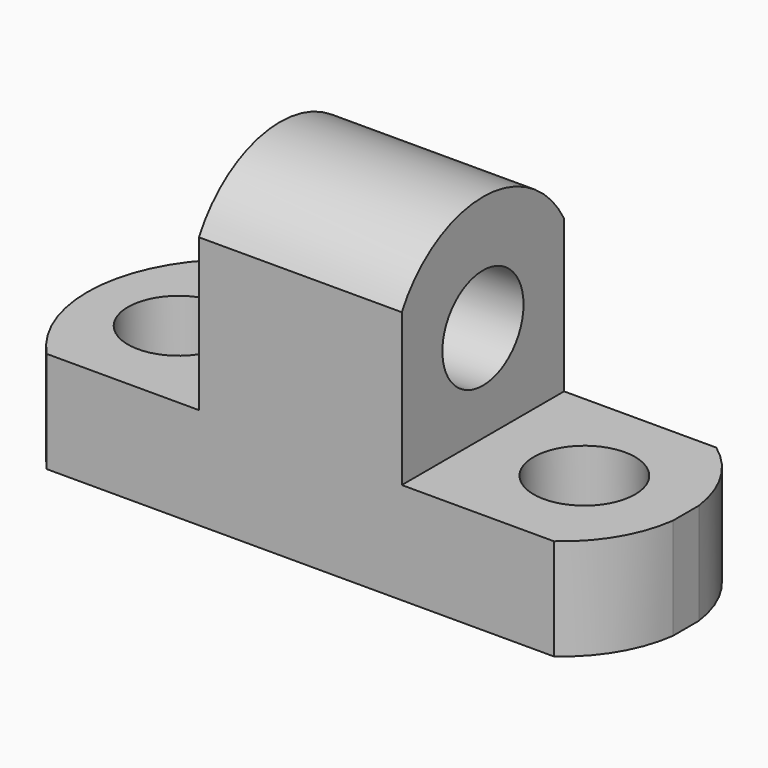
from build123d import *

# Parameters (mm, degrees)
F1_DEPTH = 25.4
F2_R     = 6.35
F3_DEPTH = 12.701
F4_R     = 6.35
F5_DEPTH = 50.801
F7_DEPTH = 12.701
F9_DEPTH = 12.701


with BuildPart() as f1:
    # F0 (on Front) → F1 (new body)
    with BuildSketch(Plane.XZ):
        Polygon((-20.6712735461, 12.7), (-46.0712735461, 12.7), (-46.0712735461, 0), (30.1287264539, 0), (30.1287264539, 12.7), (4.7287264539, 12.7), (4.7287264539, 44.45), (-20.6712735461, 44.45), align=None)
    extrude(amount=F1_DEPTH)

    # F2 (on face) → F3 (cut, through all)
    with BuildSketch(Plane.XY.offset(12.7)):
        with Locations((17.4287264539, -12.7)):
            Circle(F2_R)
        with Locations((-33.3712735461, -12.7)):
            Circle(F2_R)
    extrude(amount=-F3_DEPTH, mode=Mode.SUBTRACT)

    # F4 (on face) → F5 (cut, through all)
    with BuildSketch(Plane.YZ.offset(4.7287264539)):
        with Locations((-12.7, 24.8512161426)):
            Circle(F4_R)
        with BuildLine():
            ThreePointArc((-25.4, 31.75), (-12.7, 39.3040089077), (0, 31.75))
            Line((0, 31.75), (0, 44.45))
            Line((0, 44.45), (-25.4, 44.45))
            Line((-25.4, 44.45), (-25.4, 31.75))
        make_face()
    extrude(amount=-F5_DEPTH, mode=Mode.SUBTRACT)

    # F6 (on face) → F7 (cut, through all)
    with BuildSketch(Plane.XY.offset(12.7)):
        with BuildLine():
            ThreePointArc((-39.7212735461, -25.4), (-44.8051245149, -12.7), (-39.7212735461, 0))
            Line((-39.7212735461, 0), (-46.0712735461, 0))
            Line((-46.0712735461, 0), (-46.0712735461, -25.4))
            Line((-46.0712735461, -25.4), (-39.7212735461, -25.4))
        make_face()
    extrude(amount=-F7_DEPTH, mode=Mode.SUBTRACT)

    # F8 (on face) → F9 (cut, through all)
    with BuildSketch(Plane.XY.offset(12.7)):
        with BuildLine():
            ThreePointArc((23.7787264539, 0), (28.0557438818, -4.6825889157), (30.1287264539, -10.6761071051))
            Line((30.1287264539, -10.6761071051), (30.1287264539, 0))
            Line((30.1287264539, 0), (23.7787264539, 0))
        make_face()
        with BuildLine():
            ThreePointArc((30.1287264539, -14.7238928949), (28.0557438818, -20.7174110843), (23.7787264539, -25.4))
            Line((23.7787264539, -25.4), (30.1287264539, -25.4))
            Line((30.1287264539, -25.4), (30.1287264539, -14.7238928949))
        make_face()
    extrude(amount=-F9_DEPTH, mode=Mode.SUBTRACT)


solid = f1.part
